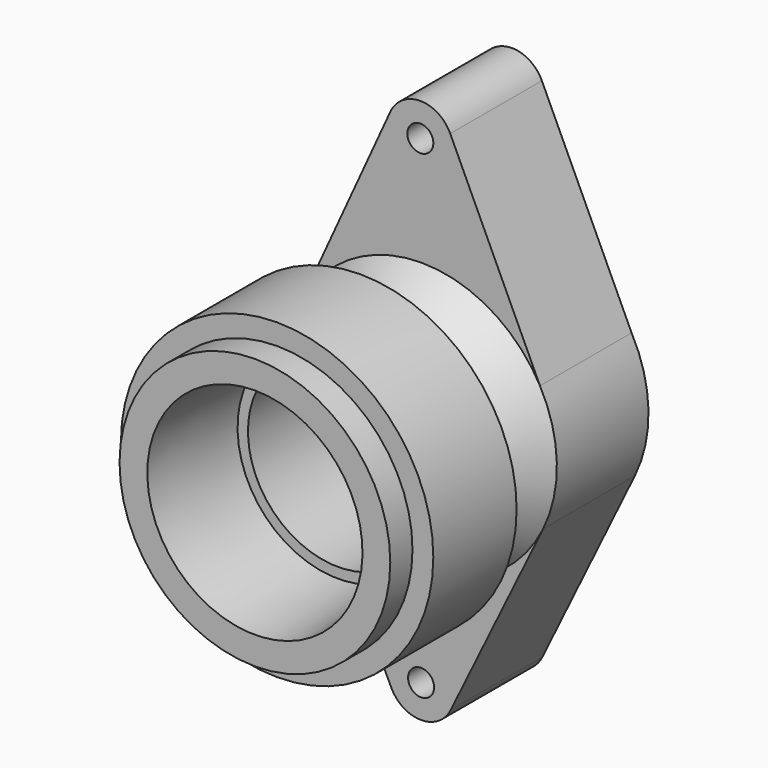
from build123d import *

# Parameters (mm, degrees)
F2_R     = 3.75
F3_DEPTH = 33


with BuildPart() as f1:
    # F0 (on Right) → F1 (revolve)
    with BuildSketch(Plane.YZ):
        with BuildLine():
            Line((38, 45), (8, 45))
            Line((8, 45), (8, 39))
            Line((8, 39), (0, 39))
            Line((0, 39), (0, 31))
            Line((0, 31), (30, 29))
            Line((30, 29), (30, 26))
            Line((30, 26), (72, 26))
            Line((72, 26), (72, 0))
            Line((72, 0), (90, 0))
            Line((90, 0), (90, 32))
            Line((90, 32), (93, 32))
            Line((93, 32), (93, 39))
            Line((93, 39), (60, 39))
            Line((60, 39), (45.8678821818, 29.1045845728))
            ThreePointArc((45.8678821818, 29.1045845728), (40.6912569338, 28.7652906284), (38, 33.2003447942))
            Line((38, 33.2003447942), (38, 45))
        make_face()
    revolve(axis=Axis((0, 81, 0), (0, -1, 0)))

    # F2 (on face) → F3 (join)
    with BuildSketch(Plane(origin=(0, 93, 0), x_dir=(-1, 0, 0), z_dir=(0, 1, 0))):
        with BuildLine():
            Line((-8.2742985586, 74.4249113641), (-34.130188626, 18.8714128871))
            ThreePointArc((-34.130188626, 18.8714128871), (1.513291562, 38.9706293078), (35.4908216229, 16.1679182498))
            Line((35.4908216229, 16.1679182498), (8.9837408504, 74.3546347403))
            ThreePointArc((8.9837408504, 74.3546347403), (0.3772254297, 79.9162169156), (-8.2742985586, 74.4249113641))
        make_face()
        with Locations((0.3385407115, 70.4162956794)):
            Circle(F2_R, mode=Mode.SUBTRACT)
        with BuildLine():
            Line((-35.0538594373, -17.094646488), (-8.4168125088, -71.7159163408))
            ThreePointArc((-8.4168125088, -71.7159163408), (0.1390979946, -77.0518203061), (8.6756874862, -71.6850600617))
            Line((8.6756874862, -71.6850600617), (35.1153510684, -16.9679733422))
            ThreePointArc((35.1153510684, -16.9679733422), (0.0704047345, -38.9999364509), (-35.0538594373, -17.094646488))
        make_face()
        with Locations((0.1219481234, -67.551835786)):
            Circle(F2_R, mode=Mode.SUBTRACT)
    extrude(amount=-F3_DEPTH)


solid = f1.part
